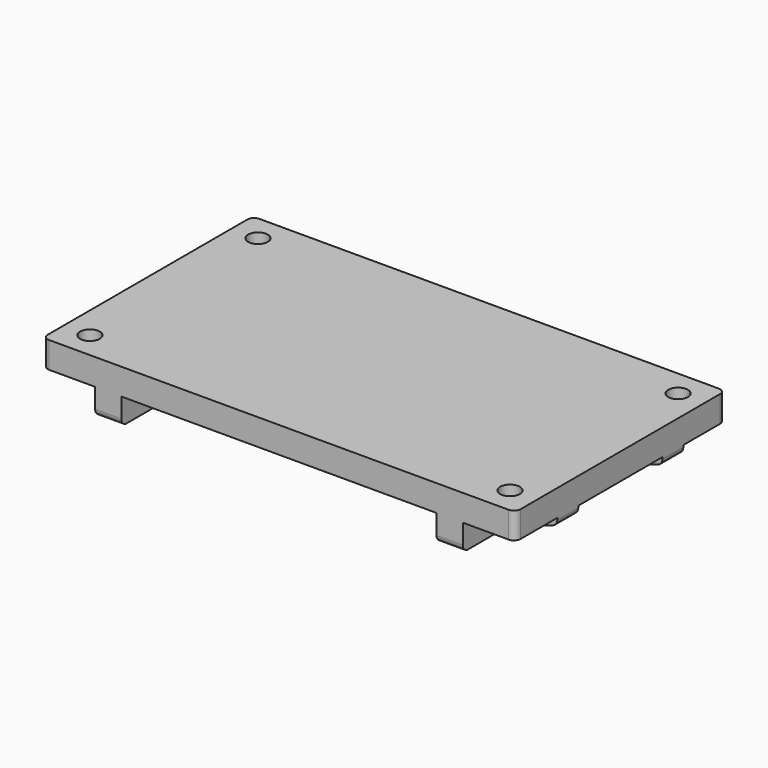
from build123d import *

# Parameters (mm, degrees)
F0_W       = 228.6
F0_H       = 127
F0_R       = 4.7625
F1_DEPTH   = 12.7
F2_W       = 12.7
F2_H       = 127
F3_DEPTH   = 12.7
F4_W       = 228.6
F4_H       = 12.7
F5_DEPTH   = 9.525
F6_SIZE2   = 19.05
F6_SIZE    = 6.35
F7_R       = 3.175
F8_R       = 3.175
F9_SIZE2   = 6.35
F9_SIZE    = 19.05
F9_2_SIZE2 = 6.35
F9_2_SIZE  = 19.05
F10_R      = 3.175
F11_R      = 3.175


with BuildPart() as f1:
    # F0 (on Top) → F1 (new body)
    with BuildSketch(Plane.XY):
        Rectangle(F0_W, F0_H)
        with Locations((-101.6, -50.8)):
            Circle(F0_R, mode=Mode.SUBTRACT)
        with Locations((101.6, -50.8)):
            Circle(F0_R, mode=Mode.SUBTRACT)
        with Locations((-101.6, 50.8)):
            Circle(F0_R, mode=Mode.SUBTRACT)
        with Locations((101.6, 50.8)):
            Circle(F0_R, mode=Mode.SUBTRACT)
    extrude(amount=F1_DEPTH)

    # F2 (on face) → F3 (join)
    with BuildSketch(Plane(origin=(0, 0, 0), x_dir=(1, 0, 0), z_dir=(0, 0, -1))):
        with Locations((-82.55, 0)):
            Rectangle(F2_W, F2_H)
        with Locations((82.55, 0)):
            Rectangle(F2_W, F2_H)
    extrude(amount=F3_DEPTH)

    # F4 (on face) → F5 (join)
    with BuildSketch(Plane(origin=(0, 0, 0), x_dir=(1, 0, 0), z_dir=(0, 0, -1))):
        with Locations((0, -31.75)):
            Rectangle(F4_W, F4_H)
        with Locations((0, 31.75)):
            Rectangle(F4_W, F4_H)
    extrude(amount=F5_DEPTH)

    # F6
    f6_edges = [f1.edges().sort_by_distance(p)[0] for p in [
        (-114.3, -31.75, -9.525),
        (-114.3, 31.75, -9.525),
    ]]
    f6_side = f1.faces().sort_by_distance((-114.3, 0, 4.900543))[0]
    chamfer(f6_edges, length=F6_SIZE, length2=F6_SIZE2, reference=f6_side)

    # F7
    f7_edges = [f1.edges().sort_by_distance(p)[0] for p in [
        (-114.3, -31.75, -3.175),
        (-114.3, 31.75, -3.175),
        (-95.25, -31.75, -9.525),
        (-95.25, 31.75, -9.525),
    ]]
    fillet(f7_edges, radius=F7_R)

    # F8
    f8_edges = [f1.edges().sort_by_distance(p)[0] for p in [
        (-82.55, -63.5, -12.7),
        (-82.55, 63.5, -12.7),
        (82.55, 63.5, -12.7),
        (82.55, -63.5, -12.7),
    ]]
    fillet(f8_edges, radius=F8_R)

    # F9
    f9_edges = [f1.edges().sort_by_distance(p)[0] for p in [
        (114.3, -31.75, -9.525),
    ]]
    f9_side = f1.faces().sort_by_distance((101.6, -31.75, -9.525))[0]
    chamfer(f9_edges, length=F9_SIZE, length2=F9_SIZE2, reference=f9_side)

    # F9#2
    f9_2_edges = [f1.edges().sort_by_distance(p)[0] for p in [
        (114.3, 31.75, -9.525),
    ]]
    f9_2_side = f1.faces().sort_by_distance((101.6, 31.75, -9.525))[0]
    chamfer(f9_2_edges, length=F9_2_SIZE, length2=F9_2_SIZE2, reference=f9_2_side)

    # F10
    f10_edges = [f1.edges().sort_by_distance(p)[0] for p in [
        (114.3, -31.75, -3.175),
        (114.3, 31.75, -3.175),
        (95.25, 31.75, -9.525),
        (95.25, -31.75, -9.525),
    ]]
    fillet(f10_edges, radius=F10_R)

    # F11
    f11_edges = [f1.edges().sort_by_distance(p)[0] for p in [
        (-114.3, -63.5, 6.35),
        (-114.3, 63.5, 6.35),
        (114.3, -63.5, 6.35),
        (114.3, 63.5, 6.35),
    ]]
    fillet(f11_edges, radius=F11_R)


solid = f1.part
